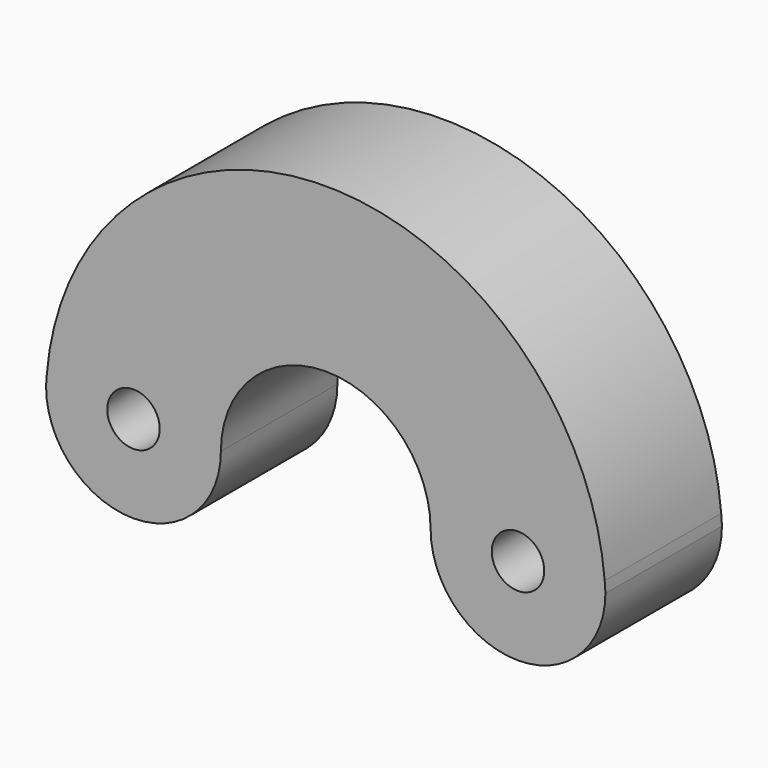
from build123d import *

# Parameters (mm, degrees)
F0_R     = 4.5
F1_DEPTH = 25


with BuildPart() as f1:
    # F0 (on Front) → F1 (new body)
    with BuildSketch(Plane.XZ):
        with BuildLine():
            ThreePointArc((80.8796866912, 1.8960284735), (65.0500790474, 14.9698914553), (51, 0))
            ThreePointArc((51, 0), (66, -15), (81, 0))
            ThreePointArc((81.0000000009, 0), (80.9492159585, 0.9486089799), (80.8796866912, 1.8960284735))
        make_face()
        with Locations((66, 0)):
            Circle(F0_R, mode=Mode.SUBTRACT)
        with BuildLine():
            ThreePointArc((-14.8796866912, 1.8960284735), (0.9499209526, 14.9698914553), (15, 0))
            ThreePointArc((15, 0), (33, 17.9516905927), (51, 0))
            ThreePointArc((51, 0), (65.0500790474, 14.9698914553), (80.8796866912, 1.8960284735))
            ThreePointArc((80.8796866912, 1.8960284735), (33, 45.9516256124), (-14.8796866912, 1.8960284735))
        make_face()
        with BuildLine():
            ThreePointArc((-14.8796866912, 1.8960284735), (-14.9492159585, 0.9486089799), (-15.0000000009, 0))
            ThreePointArc((-15, 0), (0, -15), (15, 0))
            ThreePointArc((15, 0), (0.9499209526, 14.9698914553), (-14.8796866912, 1.8960284735))
        make_face()
        Circle(F0_R, mode=Mode.SUBTRACT)
    extrude(amount=F1_DEPTH)


solid = f1.part
